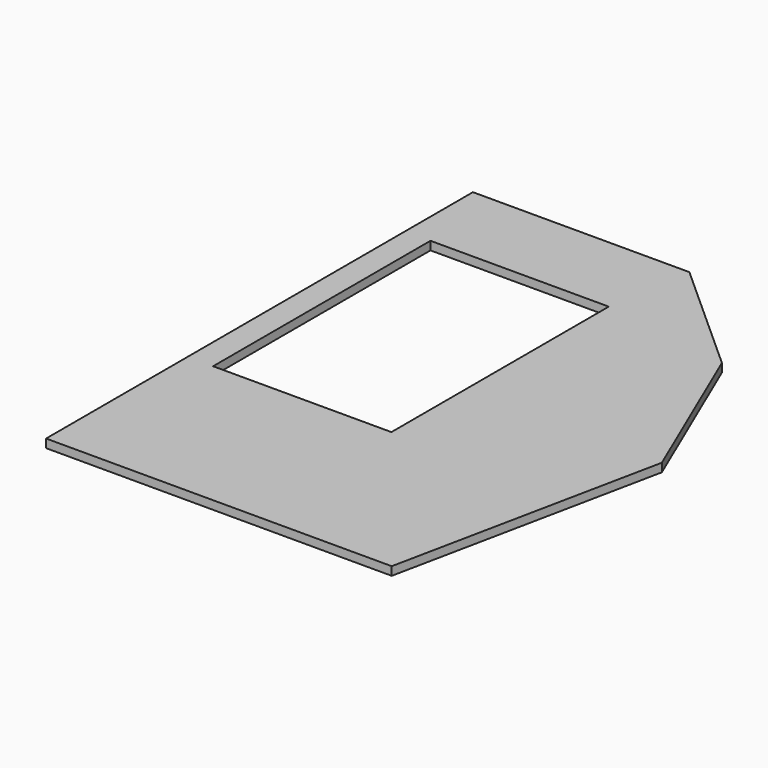
from build123d import *

# Parameters (mm, degrees)
SKETCH_W  = 21
SKETCH_H  = 32
PAD_DEPTH = 1


with BuildPart() as part:
    # Sketch → Pad (new body)
    with BuildSketch(Plane.XY):
        Polygon((-2.22, 59.76), (-2.22, -3.08), (38.49, -3.08), (45.010048, 28.539799), (36.908657, 47.508923), (23.274607, 59.76), align=None)
        with Locations((11.28, 33.76)):
            Rectangle(SKETCH_W, SKETCH_H, mode=Mode.SUBTRACT)
    extrude(amount=PAD_DEPTH)


solid = part.part
